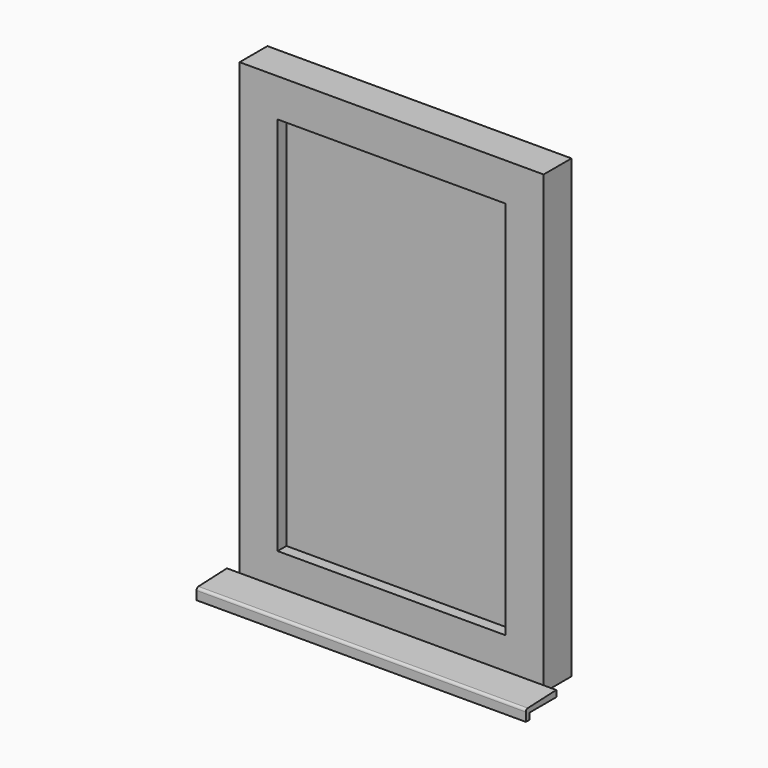
from build123d import *

# Parameters (mm, degrees)
F0_W          = 609.6
F0_H          = 914.4
F0_W_2        = 457.2
F0_H_2        = 762
F1_DEPTH      = 34.925
F2_W          = 457.2
F2_H          = 762
F3_DEPTH      = 12.7
F5_DEPTH      = 635
F5_DEPTH_BACK = 25.4
F6_R          = 5.08


with BuildPart() as f1:
    # F0 (on Front) → F1 (new body, symmetric)
    with BuildSketch(Plane.XZ):
        with Locations((304.8, 457.2)):
            Rectangle(F0_W, F0_H)
        with Locations((304.8, 457.2)):
            Rectangle(F0_W_2, F0_H_2, mode=Mode.SUBTRACT)
    extrude(amount=F1_DEPTH, both=True)

    # F4 (on face) → F5 (join, two sides)
    with BuildSketch(Plane(origin=(0, 0, 0), x_dir=(0, -1, 0), z_dir=(-1, 0, 0))) as f5_sk:
        Polygon((34.925, 12.7), (34.925, 0), (101.6, 0), (101.6, -12.7), (111.125, -12.7), (111.125, 9.525), align=None)
    extrude(amount=-F5_DEPTH)
    extrude(f5_sk.sketch, amount=F5_DEPTH_BACK)

    # F6
    f6_edges = [f1.edges().sort_by_distance(p)[0] for p in [
        (304.8, -111.125, 9.525),
    ]]
    fillet(f6_edges, radius=F6_R)


with BuildPart() as f3:
    # F2 (on Front) → F3 (new body, symmetric)
    with BuildSketch(Plane.XZ):
        with Locations((304.8, 457.2)):
            Rectangle(F2_W, F2_H)
    extrude(amount=F3_DEPTH, both=True)


solid = Compound([f1.part, f3.part])
